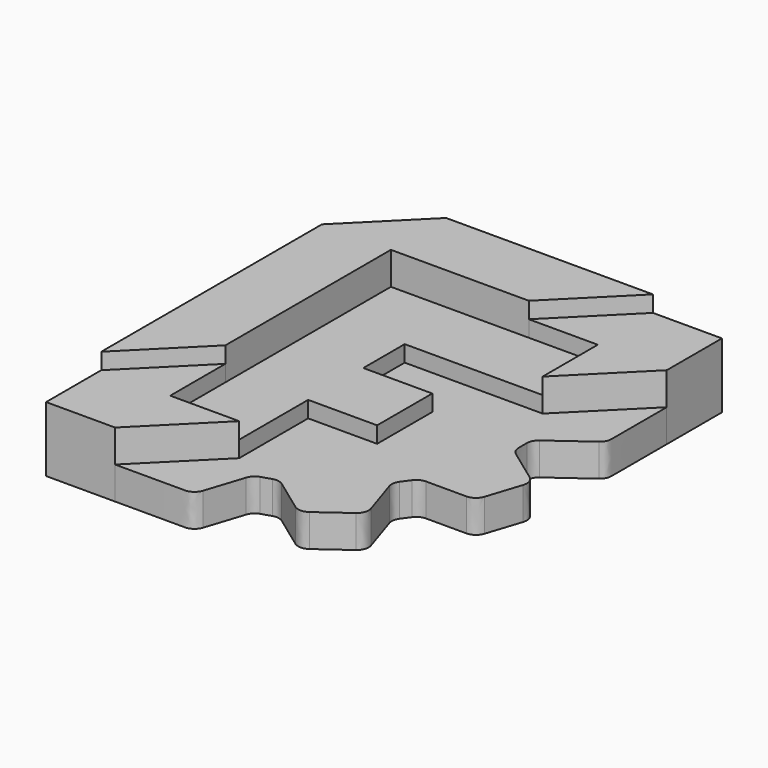
from build123d import *

# Parameters (mm, degrees)
EXTRUDE_DEPTH    = 25
EXTRUDE001_DEPTH = 20
EXTRUDE002_DEPTH = 15
EXTRUDE003_DEPTH = 20
EXTRUDE004_DEPTH = 10


with BuildPart() as extrude_body:
    # Sketch → Extrude (new body)
    with BuildSketch(Plane.XY):
        with BuildLine():
            add(Edge.make_bspline(
                [(21.166667, 0), (0, -21.166667)],
                knots=[0, 0, 113.137085, 113.137085], degree=1))
            add(Edge.make_bspline(
                [(0, -21.166667), (0, -105.833333)],
                knots=[0, 0, 320, 320], degree=1))
            add(Edge.make_bspline(
                [(0, -105.833333), (21.166667, -84.666667)],
                knots=[0, 0, 113.137085, 113.137085], degree=1))
            add(Edge.make_bspline(
                [(21.166667, -84.666667), (21.166667, -21.166667)],
                knots=[0, 0, 240, 240], degree=1))
            add(Edge.make_bspline(
                [(21.166667, -21.166667), (63.5, -21.166667)],
                knots=[0, 0, 160, 160], degree=1))
            add(Edge.make_bspline(
                [(63.5, -21.166667), (84.666667, 0)],
                knots=[0, 0, 113.137085, 113.137085], degree=1))
            add(Edge.make_bspline(
                [(84.666667, 0), (21.166667, 0)],
                knots=[0, 0, 240, 240], degree=1))
        make_face()
    extrude(amount=EXTRUDE_DEPTH)


with BuildPart() as extrude001:
    # Sketch001 → Extrude001 (new body)
    with BuildSketch(Plane.XY):
        with BuildLine():
            add(Edge.make_bspline(
                [(21.166667, -84.666667), (0, -105.833333)],
                knots=[0, 0, 113.137085, 113.137085], degree=1))
            add(Edge.make_bspline(
                [(0, -105.833333), (0, -127)],
                knots=[0, 0, 80, 80], degree=1))
            add(Edge.make_bspline(
                [(0, -127), (21.166667, -127)],
                knots=[0, 0, 80, 80], degree=1))
            add(Edge.make_bspline(
                [(21.166667, -127), (42.333333, -105.833333)],
                knots=[0, 0, 113.137085, 113.137085], degree=1))
            add(Edge.make_bspline(
                [(42.333333, -105.833333), (21.166667, -105.833333)],
                knots=[0, 0, 80, 80], degree=1))
            add(Edge.make_bspline(
                [(21.166667, -105.833333), (21.166667, -84.666667)],
                knots=[0, 0, 80, 80], degree=1))
        make_face()
    extrude(amount=EXTRUDE001_DEPTH)


with BuildPart() as extrude002:
    # Sketch002 → Extrude002 (new body)
    with BuildSketch(Plane.XY):
        with BuildLine():
            add(Edge.make_bspline(
                [(21.166667, -105.833333), (42.333333, -105.833333)],
                knots=[0, 0, 80, 80], degree=1))
            add(Edge.make_bspline(
                [(42.333333, -105.833333), (42.333333, -79.375)],
                knots=[0, 0, 100, 100], degree=1))
            add(Edge.make_bspline(
                [(42.333333, -79.375), (63.5, -79.375)],
                knots=[0, 0, 80, 80], degree=1))
            add(Edge.make_bspline(
                [(63.5, -79.375), (63.5, -58.208333)],
                knots=[0, 0, 80, 80], degree=1))
            add(Edge.make_bspline(
                [(63.5, -58.208333), (42.333333, -58.208333)],
                knots=[0, 0, 80, 80], degree=1))
            add(Edge.make_bspline(
                [(42.333333, -58.208333), (42.333333, -42.333333)],
                knots=[0, 0, 60, 60], degree=1))
            add(Edge.make_bspline(
                [(42.333333, -42.333333), (84.666667, -42.333333)],
                knots=[0, 0, 160, 160], degree=1))
            add(Edge.make_bspline(
                [(84.666667, -42.333333), (84.666667, -21.166667)],
                knots=[0, 0, 80, 80], degree=1))
            add(Edge.make_bspline(
                [(84.666667, -21.166667), (21.166667, -21.166667)],
                knots=[0, 0, 240, 240], degree=1))
            add(Edge.make_bspline(
                [(21.166667, -21.166667), (21.166667, -105.833333)],
                knots=[0, 0, 320, 320], degree=1))
        make_face()
    extrude(amount=EXTRUDE002_DEPTH)


with BuildPart() as extrude003:
    # Sketch003 → Extrude003 (new body)
    with BuildSketch(Plane.XY):
        with BuildLine():
            add(Edge.make_bspline(
                [(84.666667, 0), (63.5, -21.166667)],
                knots=[0, 0, 113.137085, 113.137085], degree=1))
            add(Edge.make_bspline(
                [(63.5, -21.166667), (84.666667, -21.166667)],
                knots=[0, 0, 80, 80], degree=1))
            add(Edge.make_bspline(
                [(84.666667, -21.166667), (84.666667, -42.333333)],
                knots=[0, 0, 80, 80], degree=1))
            add(Edge.make_bspline(
                [(84.666667, -42.333333), (105.833333, -21.166667)],
                knots=[0, 0, 113.137085, 113.137085], degree=1))
            add(Edge.make_bspline(
                [(105.833333, -21.166667), (105.833333, 0)],
                knots=[0, 0, 80, 80], degree=1))
            add(Edge.make_bspline(
                [(105.833333, 0), (84.666667, 0)],
                knots=[0, 0, 80, 80], degree=1))
        make_face()
    extrude(amount=EXTRUDE003_DEPTH)


with BuildPart() as extrude004:
    # Sketch004 → Extrude004 (new body)
    with BuildSketch(Plane.XY):
        with BuildLine():
            add(Edge.make_bspline(
                [(105.833333, -21.166667), (84.666667, -42.333333)],
                knots=[0, 0, 113.137085, 113.137085], degree=1))
            add(Edge.make_bspline(
                [(84.666667, -42.333333), (42.333333, -42.333333)],
                knots=[0, 0, 160, 160], degree=1))
            add(Edge.make_bspline(
                [(42.333333, -42.333333), (42.333333, -58.208333)],
                knots=[0, 0, 60, 60], degree=1))
            add(Edge.make_bspline(
                [(42.333333, -58.208333), (63.5, -58.208333)],
                knots=[0, 0, 80, 80], degree=1))
            add(Edge.make_bspline(
                [(63.5, -58.208333), (63.5, -79.375)],
                knots=[0, 0, 80, 80], degree=1))
            add(Edge.make_bspline(
                [(63.5, -79.375), (42.333333, -79.375)],
                knots=[0, 0, 80, 80], degree=1))
            add(Edge.make_bspline(
                [(42.333333, -79.375), (42.333333, -105.833333)],
                knots=[0, 0, 100, 100], degree=1))
            add(Edge.make_bspline(
                [(42.333333, -105.833333), (21.166667, -127)],
                knots=[0, 0, 113.137085, 113.137085], degree=1))
            add(Edge.make_bspline(
                [(21.166667, -127), (42.599927, -127)],
                knots=[0, 0, 81.0076, 81.0076], degree=1))
            add(Edge.make_bspline(
                [(42.599927, -127), (44.204678, -127), (45.626179, -125.966696), (46.122008, -124.440474)],
                knots=[0, 0, 0, 0, 1, 1, 1, 1], degree=3))
            add(Edge.make_bspline(
                [(46.122008, -124.440474), (49.953122, -112.649159)],
                knots=[0, 0, 46.858909, 46.858909], degree=1))
            add(Edge.make_bspline(
                [(49.953122, -112.649159), (50.319305, -111.521557), (51.204548, -110.639225), (52.332149, -110.27283)],
                knots=[0, 0, 0, 0, 1, 1, 1, 1], degree=3))
            add(Edge.make_bspline(
                [(52.332149, -110.27283), (55.277279, -109.315779)],
                knots=[0, 0, 11.704177, 11.704177], degree=1))
            add(Edge.make_bspline(
                [(55.277279, -109.315779), (56.404933, -108.949067), (57.640379, -109.1438), (58.599705, -109.840712)],
                knots=[0, 0, 0, 0, 1, 1, 1, 1], degree=3))
            add(Edge.make_bspline(
                [(58.599705, -109.840712), (68.627255, -117.128237)],
                knots=[0, 0, 46.850863, 46.850863], degree=1))
            add(Edge.make_bspline(
                [(68.627255, -117.128237), (69.925459, -118.071371), (71.68515, -118.071371), (72.983355, -117.128237)],
                knots=[0, 0, 0, 0, 1, 1, 1, 1], degree=3))
            add(Edge.make_bspline(
                [(72.983355, -117.128237), (81.97178, -110.59541)],
                knots=[0, 0, 41.996932, 41.996932], degree=1))
            add(Edge.make_bspline(
                [(81.97178, -110.59541), (83.270143, -109.652223), (83.813068, -107.981644), (83.317186, -106.455369)],
                knots=[0, 0, 0, 0, 1, 1, 1, 1], degree=3))
            add(Edge.make_bspline(
                [(83.317186, -106.455369), (79.486072, -94.664001)],
                knots=[0, 0, 46.859099, 46.859099], degree=1))
            add(Edge.make_bspline(
                [(79.486072, -94.664001), (79.11936, -93.536347), (79.316739, -92.300901), (80.013651, -91.341575)],
                knots=[0, 0, 0, 0, 1, 1, 1, 1], degree=3))
            add(Edge.make_bspline(
                [(80.013651, -91.341575), (81.834884, -88.836712)],
                knots=[0, 0, 11.705087, 11.705087], degree=1))
            add(Edge.make_bspline(
                [(81.834884, -88.836712), (82.531744, -87.877491), (83.643523, -87.308214), (84.829174, -87.308108)],
                knots=[0, 0, 0, 0, 1, 1, 1, 1], degree=3))
            add(Edge.make_bspline(
                [(84.829174, -87.308108), (97.227549, -87.310807)],
                knots=[0, 0, 46.860001, 46.860001], degree=1))
            add(Edge.make_bspline(
                [(97.227549, -87.310807), (98.832405, -87.31086), (100.2538, -86.274857), (100.749629, -84.748582)],
                knots=[0, 0, 0, 0, 1, 1, 1, 1], degree=3))
            add(Edge.make_bspline(
                [(100.749629, -84.748582), (104.184238, -74.18234)],
                knots=[0, 0, 41.992234, 41.992234], degree=1))
            add(Edge.make_bspline(
                [(104.184238, -74.18234), (104.680068, -72.656118), (104.136613, -70.982734), (102.838832, -70.039495)],
                knots=[0, 0, 0, 0, 1, 1, 1, 1], degree=3))
            add(Edge.make_bspline(
                [(102.838832, -70.039495), (92.808531, -62.752023)],
                knots=[0, 0, 46.859159, 46.859159], degree=1))
            add(Edge.make_bspline(
                [(92.808531, -62.752023), (91.849257, -62.055058), (91.282679, -60.943437), (91.282679, -59.75768)],
                knots=[0, 0, 0, 0, 1, 1, 1, 1], degree=3))
            add(Edge.make_bspline(
                [(91.282679, -59.75768), (91.282679, -56.659462)],
                knots=[0, 0, 11.7098, 11.7098], degree=1))
            add(Edge.make_bspline(
                [(91.282679, -56.659462), (91.282785, -55.473759), (91.849205, -54.359281), (92.808531, -53.662421)],
                knots=[0, 0, 0, 0, 1, 1, 1, 1], degree=3))
            add(Edge.make_bspline(
                [(92.808531, -53.662421), (104.30727, -45.308414)],
                knots=[0, 0, 53.718566, 53.718566], degree=1))
            add(Edge.make_bspline(
                [(104.30727, -45.308414), (105.266702, -44.611555), (105.833333, -43.497183), (105.833333, -42.311479)],
                knots=[0, 0, 0, 0, 1, 1, 1, 1], degree=3))
            add(Edge.make_bspline(
                [(105.833333, -42.311479), (105.833333, -21.166667)],
                knots=[0, 0, 79.9174, 79.9174], degree=1))
        make_face()
    extrude(amount=EXTRUDE004_DEPTH)


solid = Compound([extrude_body.part, extrude001.part, extrude002.part, extrude003.part, extrude004.part])
